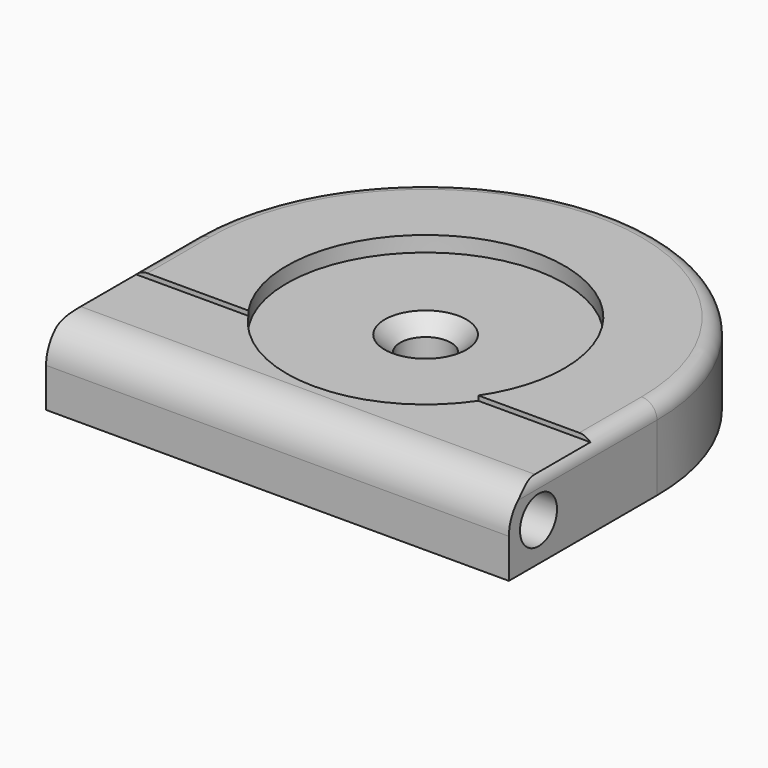
from build123d import *

# Parameters (mm, degrees)
PAD011_DEPTH    = 5.3
SKETCH027_W     = 31.062653
SKETCH027_H     = 8.215561
POCKET012_DEPTH = 0.305
FILLET005_R     = 2.45
FILLET006_R     = 1
SKETCH028_R     = 9
POCKET013_DEPTH = 1
SKETCH029_R     = 1.65
POCKET014_DEPTH = 5
SKETCH030_R     = 1.5
POCKET015_DEPTH = 31
CHAMFER001_SIZE = 1


with BuildPart() as part:
    # Sketch026 → Pad011 (new body)
    with BuildSketch(Plane.XY):
        with BuildLine():
            ThreePointArc((15, 0), (0, 15), (-15, 0))
            Line((-15, 0), (-15, -12))
            Line((-15, -12), (15, -12))
            Line((15, 0), (15, -12))
        make_face()
    extrude(amount=PAD011_DEPTH)

    # Sketch027 (on Face6 of Pad011) → Pocket012 (cut)
    with BuildSketch(Plane.XY.offset(5.3)):
        with Locations((0.051316, -9.153541)):
            Rectangle(SKETCH027_W, SKETCH027_H)
    extrude(amount=-POCKET012_DEPTH, mode=Mode.SUBTRACT)

    # Fillet005
    fillet005_edges = [part.edges().sort_by_distance(p)[0] for p in [
        (0, -12, 4.995),
    ]]
    fillet(fillet005_edges, radius=FILLET005_R)

    # Fillet006
    fillet006_edges = [part.edges().sort_by_distance(p)[0] for p in [
        (0, 15, 5.3),
    ]]
    fillet(fillet006_edges, radius=FILLET006_R)

    # Sketch028 (on Face12 of Fillet006) → Pocket013 (cut)
    with BuildSketch(Plane.XY.offset(5.3)):
        Circle(SKETCH028_R)
    extrude(amount=-POCKET013_DEPTH, mode=Mode.SUBTRACT)

    # Sketch029 (on Face15 of Pocket013) → Pocket014 (cut)
    with BuildSketch(Plane.XY.offset(4.3)):
        Circle(SKETCH029_R)
    extrude(amount=-POCKET014_DEPTH, mode=Mode.SUBTRACT)

    # Sketch030 (on Face1 of Pocket014) → Pocket015 (cut)
    with BuildSketch(Plane.YZ.offset(15)):
        with Locations((-9.6, 2.5)):
            Circle(SKETCH030_R)
    extrude(amount=-POCKET015_DEPTH, mode=Mode.SUBTRACT)

    # Chamfer001
    chamfer001_edges = [part.edges().sort_by_distance(p)[0] for p in [
        (-1.65, 0, 4.3),
    ]]
    chamfer(chamfer001_edges, length=CHAMFER001_SIZE)


with BuildPart() as part_1:
    # Body007 placement: moved
    add(part.part.moved(Location((-59.5, -74.6, 85))))


solid = part_1.part
